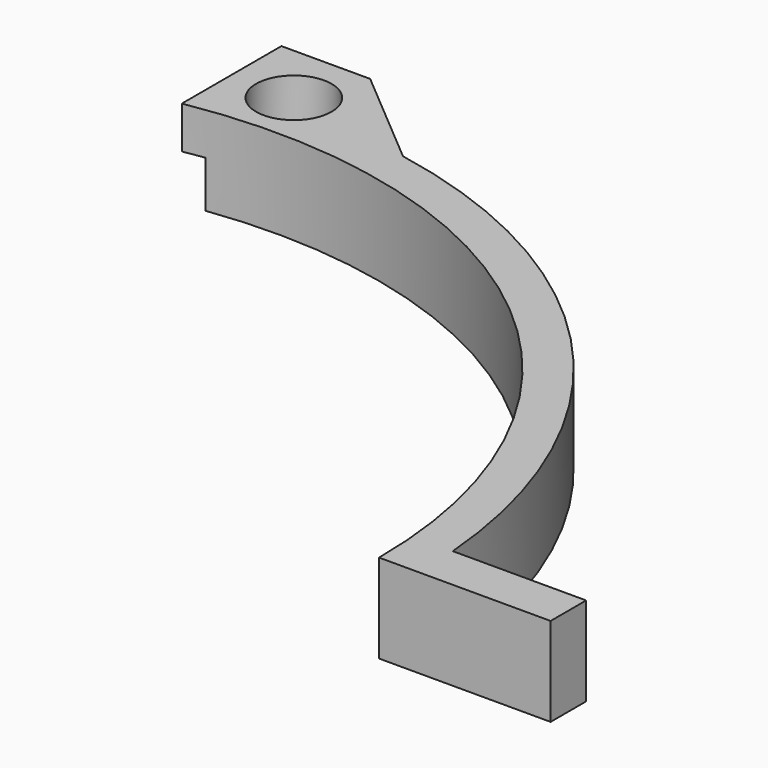
from build123d import *

# Parameters (mm, degrees)
SKETCH_R     = 4.25
PAD_DEPTH    = 10
POCKET_DEPTH = 5.25


with BuildPart() as part:
    # Sketch → Pad (new body)
    with BuildSketch(Plane.XY):
        with BuildLine():
            ThreePointArc((57.5, 0), (36.960288, 44.047555), (-9.98477, 56.626446))
            Line((-9.98477, 56.626446), (-9.98477, 70.626446))
            Line((0, 70.626446), (-9.98477, 70.626446))
            Line((0, 70.626446), (11.447938, 60.933937))
            ThreePointArc((61.798058, 5), (46.080314, 41.480172), (11.447938, 60.933937))
            Line((61.798058, 5), (76.798058, 5))
            Line((76.798058, 5), (76.798058, 0))
            Line((76.798058, 0), (57.5, 0))
        make_face()
        with Locations((-2.98477, 63.626446)):
            Circle(SKETCH_R, mode=Mode.SUBTRACT)
    extrude(amount=PAD_DEPTH)

    # Sketch001 (on Face10 of Pad) → Pocket (cut)
    with BuildSketch(Plane(origin=(0, 0, 0), x_dir=(1, 0, 0), z_dir=(0, 0, -1))):
        with BuildLine():
            ThreePointArc((-10.105268, -56.323298), (-2.630648, -57.953028), (5, -58.5))
            Line((5, -58.5), (11.780711, -62.745227))
            Line((4.894732, -71.323298), (11.780711, -62.745227))
            Line((-10.105268, -71.323298), (4.894732, -71.323298))
            Line((-10.105268, -56.323298), (-10.105268, -71.323298))
        make_face()
    extrude(amount=-POCKET_DEPTH, mode=Mode.SUBTRACT)


solid = part.part
